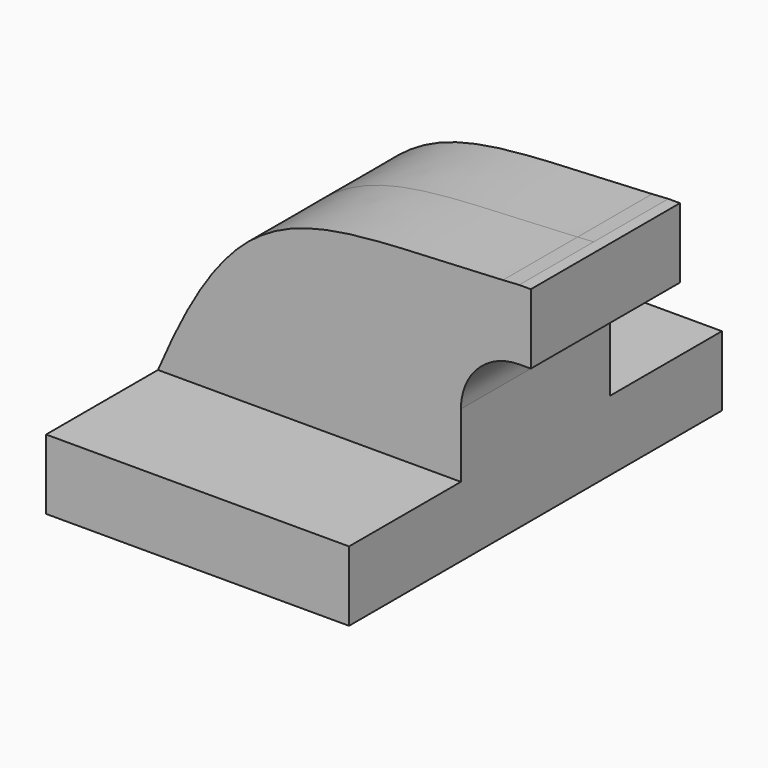
from build123d import *

# Parameters (mm, degrees)
F1_DEPTH = 63.5
F2_DEPTH = 25.4


with BuildPart() as f1:
    # F0 (on Front) → F1 (new body, symmetric)
    with BuildSketch(Plane.XZ):
        Polygon((22.225, 9.525), (-41.275, 9.525), (-41.275, -9.525), (41.275, -9.525), (41.275, 9.525), align=None)
    extrude(amount=F1_DEPTH, both=True)

    # F0 (on Front) → F2 (join, symmetric)
    with BuildSketch(Plane.XZ):
        with BuildLine():
            add(Edge.make_bspline(
                [(-41.275, 9.525), (-17.963025, 64.389196), (-0.915335, 58.434684), (52.727391, 61.644047)],
                knots=[0, 0, 0, 0, 108.575172, 108.575172, 108.575172, 108.575172], degree=3))
            Line((-41.275, 9.525), (22.225, 9.525))
            Line((22.225, 9.525), (22.225, 27.0002))
            ThreePointArc((22.225, 27.0002), (30.937262, 50.079368), (52.727391, 61.644047))
        make_face()
        with BuildLine():
            Line((22.225, 27.0002), (22.225, 9.525))
            Line((22.225, 9.525), (41.275, 9.525))
            Line((41.275, 9.525), (41.275, 27.0002))
            ThreePointArc((41.275, 27.0002), (45.92468, 38.22552), (57.15, 42.8752))
            Line((57.15, 42.8752), (60.325, 42.8752))
            Line((60.325, 42.8752), (60.325, 61.9252))
            Line((60.325, 61.9252), (57.15, 61.9252))
            add(Edge.make_bspline(
                [(52.727391, 61.644047), (54.174675, 61.730636), (55.648598, 61.823896), (57.15, 61.9252)],
                knots=[108.575172, 108.575172, 108.575172, 108.575172, 111.504536, 111.504536, 111.504536, 111.504536], degree=3))
            ThreePointArc((52.727391, 61.644047), (30.937262, 50.079368), (22.225, 27.0002))
        make_face()
    extrude(amount=F2_DEPTH, both=True)


solid = f1.part
